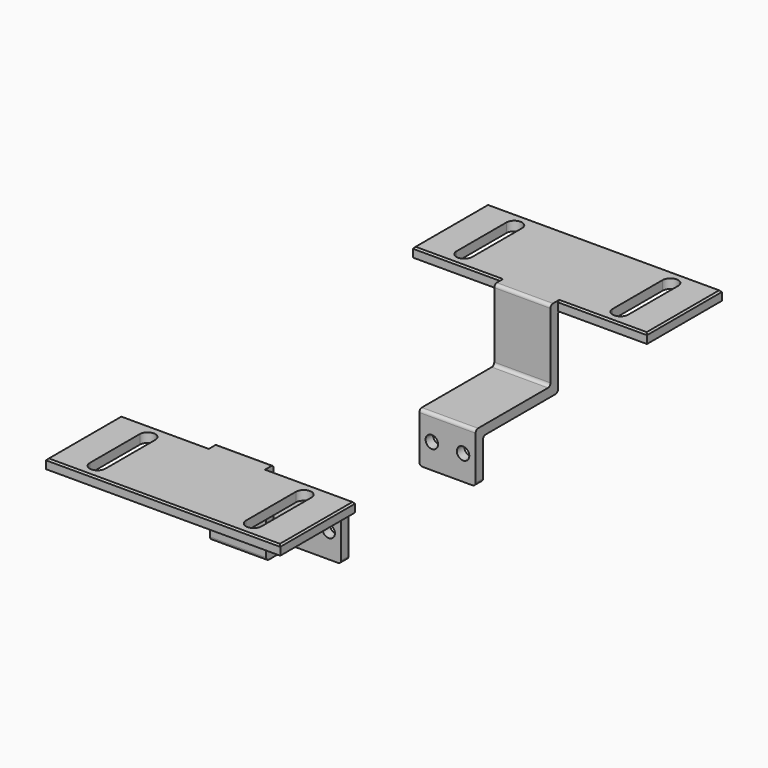
from build123d import *

# Parameters (mm, degrees)
F0_W     = 9
F0_H     = 16
F0_R     = 2
F1_DEPTH = 3
F2_W     = 18
F2_H     = 3
F3_DEPTH = 30
F4_W     = 18
F4_H     = 3
F5_DEPTH = 23
F6_W     = 28.5
F6_H     = 3
F6_W_2   = 18
F7_DEPTH = 30
F8_W     = 5
F8_H     = 20
F9_DEPTH = 39.001
F10_R    = 1
F11_R    = 1
F12_SIZE = 0.5
F13_R    = 1


with BuildPart() as f1:
    # F0 (on Front) → F1 (new body)
    with BuildSketch(Plane.XZ):
        with Locations((4.5, 0)):
            Rectangle(F0_W, F0_H)
        with Locations((5, 0)):
            Circle(F0_R, mode=Mode.SUBTRACT)
        with Locations((-4.5, 0)):
            Rectangle(F0_W, F0_H)
        with Locations((-5, 0)):
            Circle(F0_R, mode=Mode.SUBTRACT)
    extrude(amount=F1_DEPTH)

    # F2 (on face) → F3 (join)
    with BuildSketch(Plane.XZ.offset(3)):
        with Locations((0, 6.5)):
            Rectangle(F2_W, F2_H)
    extrude(amount=F3_DEPTH)

    # F4 (on face) → F5 (join)
    with BuildSketch(Plane.XY.offset(8)):
        with Locations((0, -31.5)):
            Rectangle(F4_W, F4_H)
    extrude(amount=F5_DEPTH)

    # F6 (on face) → F7 (join)
    with BuildSketch(Plane.XZ.offset(33)):
        with Locations((-23.25, 29.5)):
            Rectangle(F6_W, F6_H)
        with Locations((0, 29.5)):
            Rectangle(F6_W_2, F6_H)
        with Locations((23.25, 29.5)):
            Rectangle(F6_W, F6_H)
    extrude(amount=F7_DEPTH)

    # F8 (on face) → F9 (cut, through all)
    with BuildSketch(Plane.XY.offset(31)):
        with BuildLine():
            Line((-27.5, -38), (-22.5, -38))
            ThreePointArc((-22.5, -38), (-25, -35.5), (-27.5, -38))
        make_face()
        with Locations((-25, -48)):
            Rectangle(F8_W, F8_H)
        with BuildLine():
            Line((27.5, -58), (22.5, -58))
            ThreePointArc((22.5, -58), (25, -60.5), (27.5, -58))
        make_face()
        with Locations((25, -48)):
            Rectangle(F8_W, F8_H)
        with BuildLine():
            ThreePointArc((-27.5, -58), (-25, -60.5), (-22.5, -58))
            Line((-22.5, -58), (-27.5, -58))
        make_face()
        with BuildLine():
            ThreePointArc((27.5, -38), (25, -35.5), (22.5, -38))
            Line((22.5, -38), (27.5, -38))
        make_face()
    extrude(amount=-F9_DEPTH, mode=Mode.SUBTRACT)

    # F10
    f10_edges = [f1.edges().sort_by_distance(p)[0] for p in [
        (0, 0, 8),
        (0, -30, 8),
        (0, -30, 31),
    ]]
    fillet(f10_edges, radius=F10_R)

    # F11
    f11_edges = [f1.edges().sort_by_distance(p)[0] for p in [
        (0, -3, 5),
        (0, -33, 5),
        (0, -33, 28),
    ]]
    fillet(f11_edges, radius=F11_R)

    # F12
    f12_edges = [f1.edges().sort_by_distance(p)[0] for p in [
        (23.25, -33, 31),
        (-23.25, -33, 31),
        (37.5, -48, 31),
        (0, -63, 31),
        (-37.5, -48, 31),
    ]]
    chamfer(f12_edges, length=F12_SIZE)

    # F13
    f13_edges = [f1.edges().sort_by_distance(p)[0] for p in [
        (9, -1.5, -8),
        (-9, -1.5, -8),
    ]]
    fillet(f13_edges, radius=F13_R)


with BuildPart() as f15_1:
    # F15: instance of F1
    add(f1.part.mirror(Plane(origin=(0, 25.4, -0.5386323373), x_dir=(1, 0, 0), z_dir=(0, 1, 0))))


solid = Compound([f1.part, f15_1.part])
